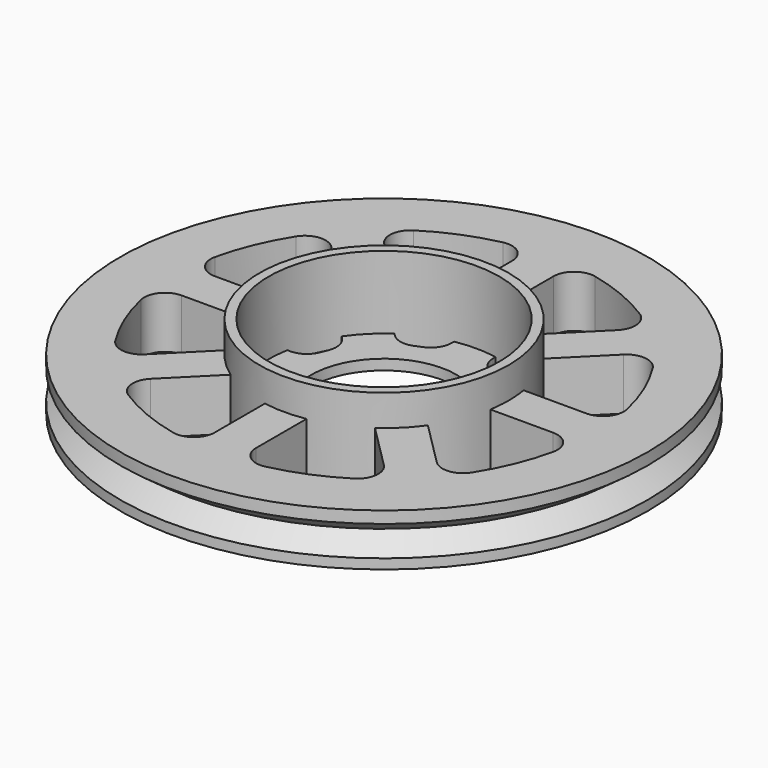
from build123d import *

# Parameters (mm, degrees)
F0_R      = 25.4
F0_R_2    = 3
F1_DEPTH  = 5
F2_R      = 12
F2_R_2    = 11.1
F3_DEPTH  = 8
F4_R      = 3
F5_DEPTH  = 8.001
F9_DEPTH  = 4
F8_R      = 7
F10_DEPTH = 8.001


with BuildPart() as f1:
    # F0 (on Top) → F1 (new body)
    with BuildSketch(Plane.XY):
        Circle(F0_R)
        with BuildLine():
            ThreePointArc((-10.8845303834, -17.1589451405), (-11.8011180453, -15.6897422321), (-11.2274319001, -14.0558590249))
            Line((-11.2274319001, -14.0558590249), (-6.0965287445, -8.9249558692))
            ThreePointArc((-6.0965287445, -8.9249558692), (-5.0405306234, -8.3715104933), (-3.857237617, -8.5172893555))
            ThreePointArc((-3.857237617, -8.5172893555), (-3.5780900926, -8.638273629), (-3.295154185, -8.7501119363))
            ThreePointArc((-3.295154185, -8.7501119363), (-2.355358454, -9.4837452232), (-2, -10.6217936338))
            Line((-2, -10.6217936338), (-2, -17.8779864638))
            ThreePointArc((-2, -17.8779864638), (-2.749672532, -19.4389737228), (-4.4366812227, -19.8297317109))
            ThreePointArc((-4.4366812227, -19.8297317109), (-7.7761273457, -18.7732321006), (-10.8845303834, -17.1589451405))
        make_face(mode=Mode.SUBTRACT)
        with BuildLine():
            ThreePointArc((-19.8297317109, -4.4366812227), (-19.4389737228, -2.749672532), (-17.8779864638, -2))
            Line((-17.8779864638, -2), (-10.6217936338, -2))
            ThreePointArc((-10.6217936338, -2), (-9.4837452232, -2.355358454), (-8.7501119363, -3.295154185))
            ThreePointArc((-8.7501119363, -3.295154185), (-8.638273629, -3.5780900926), (-8.5172893555, -3.857237617))
            ThreePointArc((-8.5172893555, -3.857237617), (-8.3715104933, -5.0405306234), (-8.9249558692, -6.0965287445))
            Line((-8.9249558692, -6.0965287445), (-14.0558590249, -11.2274319001))
            ThreePointArc((-14.0558590249, -11.2274319001), (-15.6897422321, -11.8011180453), (-17.1589451405, -10.8845303834))
            ThreePointArc((-17.1589451405, -10.8845303834), (-18.7732321006, -7.7761273457), (-19.8297317109, -4.4366812227))
        make_face(mode=Mode.SUBTRACT)
        Circle(F0_R_2, mode=Mode.SUBTRACT)
        with BuildLine():
            ThreePointArc((4.4366812227, -19.8297317109), (2.749672532, -19.4389737228), (2, -17.8779864638))
            Line((2, -17.8779864638), (2, -10.6217936338))
            ThreePointArc((2, -10.6217936338), (2.355358454, -9.4837452232), (3.295154185, -8.7501119363))
            ThreePointArc((3.295154185, -8.7501119363), (3.5780900926, -8.638273629), (3.857237617, -8.5172893555))
            ThreePointArc((3.857237617, -8.5172893555), (5.0405306234, -8.3715104933), (6.0965287445, -8.9249558692))
            Line((6.0965287445, -8.9249558692), (11.2274319001, -14.0558590249))
            ThreePointArc((11.2274319001, -14.0558590249), (11.8011180453, -15.6897422321), (10.8845303834, -17.1589451405))
            ThreePointArc((10.8845303834, -17.1589451405), (7.7761273457, -18.7732321006), (4.4366812227, -19.8297317109))
        make_face(mode=Mode.SUBTRACT)
        with BuildLine():
            ThreePointArc((17.1589451405, -10.8845303834), (15.6897422321, -11.8011180453), (14.0558590249, -11.2274319001))
            Line((14.0558590249, -11.2274319001), (8.9249558692, -6.0965287445))
            ThreePointArc((8.9249558692, -6.0965287445), (8.3715104933, -5.0405306234), (8.5172893555, -3.857237617))
            ThreePointArc((8.5172893555, -3.857237617), (8.638273629, -3.5780900926), (8.7501119363, -3.295154185))
            ThreePointArc((8.7501119363, -3.295154185), (9.4837452232, -2.355358454), (10.6217936338, -2))
            Line((10.6217936338, -2), (17.8779864638, -2))
            ThreePointArc((17.8779864638, -2), (19.4389737228, -2.749672532), (19.8297317109, -4.4366812227))
            ThreePointArc((19.8297317109, -4.4366812227), (18.7732321006, -7.7761273457), (17.1589451405, -10.8845303834))
        make_face(mode=Mode.SUBTRACT)
        with BuildLine():
            ThreePointArc((-17.1589451405, 10.8845303834), (-15.6897422321, 11.8011180453), (-14.0558590249, 11.2274319001))
            Line((-14.0558590249, 11.2274319001), (-8.9249558692, 6.0965287445))
            ThreePointArc((-8.9249558692, 6.0965287445), (-8.3715104933, 5.0405306234), (-8.5172893555, 3.857237617))
            ThreePointArc((-8.5172893555, 3.857237617), (-8.638273629, 3.5780900926), (-8.7501119363, 3.295154185))
            ThreePointArc((-8.7501119363, 3.295154185), (-9.4837452232, 2.355358454), (-10.6217936338, 2))
            Line((-10.6217936338, 2), (-17.8779864638, 2))
            ThreePointArc((-17.8779864638, 2), (-19.4389737228, 2.749672532), (-19.8297317109, 4.4366812227))
            ThreePointArc((-19.8297317109, 4.4366812227), (-18.7732321006, 7.7761273457), (-17.1589451405, 10.8845303834))
        make_face(mode=Mode.SUBTRACT)
        with BuildLine():
            ThreePointArc((-10.8845303834, 17.1589451405), (-7.7761273457, 18.7732321006), (-4.4366812227, 19.8297317109))
            ThreePointArc((-4.4366812227, 19.8297317109), (-2.749672532, 19.4389737228), (-2, 17.8779864638))
            Line((-2, 17.8779864638), (-2, 10.6217936338))
            ThreePointArc((-2, 10.6217936338), (-2.355358454, 9.4837452232), (-3.295154185, 8.7501119363))
            ThreePointArc((-3.295154185, 8.7501119363), (-3.5780900926, 8.638273629), (-3.857237617, 8.5172893555))
            ThreePointArc((-3.857237617, 8.5172893555), (-5.0405306234, 8.3715104933), (-6.0965287445, 8.9249558692))
            Line((-6.0965287445, 8.9249558692), (-11.2274319001, 14.0558590249))
            ThreePointArc((-11.2274319001, 14.0558590249), (-11.8011180453, 15.6897422321), (-10.8845303834, 17.1589451405))
        make_face(mode=Mode.SUBTRACT)
        with BuildLine():
            ThreePointArc((19.8297317109, 4.4366812227), (19.4389737228, 2.749672532), (17.8779864638, 2))
            Line((17.8779864638, 2), (10.6217936338, 2))
            ThreePointArc((10.6217936338, 2), (9.4837452232, 2.355358454), (8.7501119363, 3.295154185))
            ThreePointArc((8.7501119363, 3.295154185), (8.638273629, 3.5780900926), (8.5172893555, 3.857237617))
            ThreePointArc((8.5172893555, 3.857237617), (8.3715104933, 5.0405306234), (8.9249558692, 6.0965287445))
            Line((8.9249558692, 6.0965287445), (14.0558590249, 11.2274319001))
            ThreePointArc((14.0558590249, 11.2274319001), (15.6897422321, 11.8011180453), (17.1589451405, 10.8845303834))
            ThreePointArc((17.1589451405, 10.8845303834), (18.7732321006, 7.7761273457), (19.8297317109, 4.4366812227))
        make_face(mode=Mode.SUBTRACT)
        with BuildLine():
            Line((2, 10.6217936338), (2, 17.8779864638))
            ThreePointArc((2, 17.8779864638), (2.749672532, 19.4389737228), (4.4366812227, 19.8297317109))
            ThreePointArc((4.4366812227, 19.8297317109), (7.7761273457, 18.7732321006), (10.8845303834, 17.1589451405))
            ThreePointArc((10.8845303834, 17.1589451405), (11.8011180453, 15.6897422321), (11.2274319001, 14.0558590249))
            Line((11.2274319001, 14.0558590249), (6.0965287445, 8.9249558692))
            ThreePointArc((6.0965287445, 8.9249558692), (5.0405306234, 8.3715104933), (3.857237617, 8.5172893555))
            ThreePointArc((3.857237617, 8.5172893555), (3.5780900926, 8.638273629), (3.295154185, 8.7501119363))
            ThreePointArc((3.295154185, 8.7501119363), (2.355358454, 9.4837452232), (2, 10.6217936338))
        make_face(mode=Mode.SUBTRACT)
    extrude(amount=F1_DEPTH)

    # F2 (on Top) → F3 (join)
    with BuildSketch(Plane.XY):
        Circle(F2_R)
        Circle(F2_R_2, mode=Mode.SUBTRACT)
    extrude(amount=F3_DEPTH)

    # F4 (on face) → F5 (cut, through all)
    with BuildSketch(Plane.XY.offset(8)):
        Circle(F4_R)
    extrude(amount=-F5_DEPTH, mode=Mode.SUBTRACT)

    # F6 (on Right) → F7 (revolve, cut)
    with BuildSketch(Plane.YZ):
        Polygon((25.4579713509, 0.9026185274), (25.4, 2.4026185274), (23.4, 2.4026185274), align=None)
        Polygon((23.4, 2.4026185274), (25.4, 2.4026185274), (25.4579713509, 3.9026185274), align=None)
    revolve(axis=Axis((0, 0, 8.0988456029), (0, 0, -1)), mode=Mode.SUBTRACT)

    # F9 (cut): a face of the model
    f9_faces = [f1.faces().sort_by_distance(p)[0] for p in [
        (-7.6268852712, -7.6268852712, 5),
    ]]
    extrude(f9_faces, amount=-F9_DEPTH, mode=Mode.SUBTRACT)

    # F8 (on Top) → F10 (cut, through all)
    with BuildSketch(Plane.XY):
        Circle(F8_R)
    extrude(amount=F10_DEPTH, mode=Mode.SUBTRACT)


solid = f1.part
